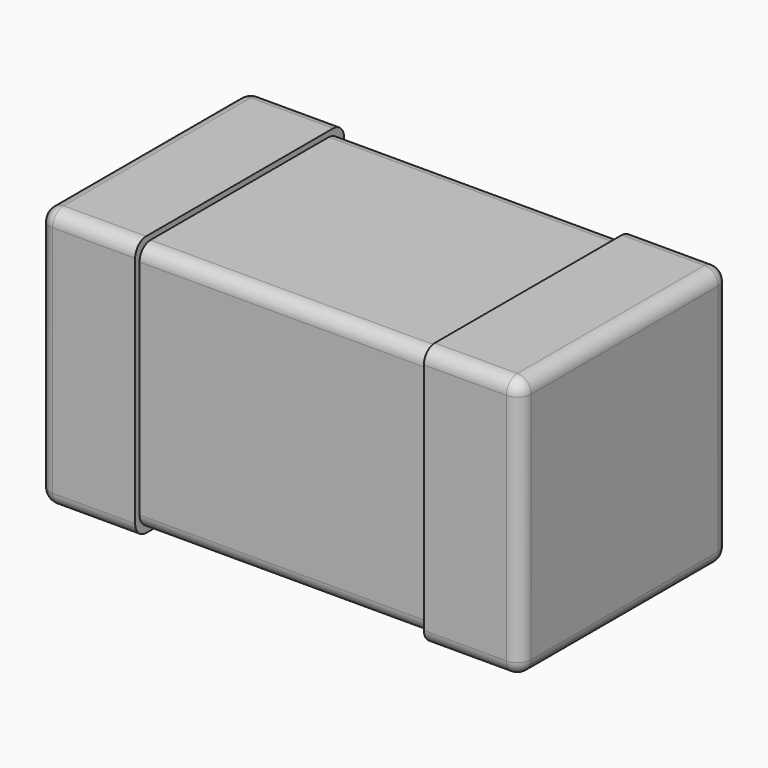
from build123d import *

# Parameters (mm, degrees)
PLATING_LEFT_W      = 0.35
PLATING_LEFT_H      = 0.95
PLATING_LEFT_DEPTH  = 0.95
PLATING_LEFT_F_R    = 0.05
PLATING_RIGHT_W     = 0.35
PLATING_RIGHT_H     = 0.95
PLATING_RIGHT_DEPTH = 0.95
PLATING_RIGHT_F_R   = 0.05
CHIP_W              = 1.71
CHIP_H              = 0.91
CHIP_DEPTH          = 0.91
CHIP_F_R            = 0.05


with BuildPart() as plating_left_f:
    # plating_left → plating_left (new body)
    with BuildSketch(Plane(origin=(-0.875, -0.475, 0), x_dir=(1, 0, 0), z_dir=(0, 0, 1))):
        with Locations((0.175, 0.475)):
            Rectangle(PLATING_LEFT_W, PLATING_LEFT_H)
    extrude(amount=PLATING_LEFT_DEPTH)

    # plating_left_f
    plating_left_f_edges = [plating_left_f.edges().sort_by_distance(p)[0] for p in [
        (-0.875, -0.475, 0.475),
        (-0.875, 0, 0.95),
        (-0.875, 0.475, 0.475),
        (-0.875, 0, 0),
        (-0.7, -0.475, 0),
        (-0.7, -0.475, 0.95),
        (-0.7, 0.475, 0),
        (-0.7, 0.475, 0.95),
    ]]
    fillet(plating_left_f_edges, radius=PLATING_LEFT_F_R)


with BuildPart() as plating_right_f:
    # plating_right → plating_right (new body)
    with BuildSketch(Plane(origin=(0.525, -0.475, 0), x_dir=(1, 0, 0), z_dir=(0, 0, 1))):
        with Locations((0.175, 0.475)):
            Rectangle(PLATING_RIGHT_W, PLATING_RIGHT_H)
    extrude(amount=PLATING_RIGHT_DEPTH)

    # plating_right_f
    plating_right_f_edges = [plating_right_f.edges().sort_by_distance(p)[0] for p in [
        (0.875, -0.475, 0.475),
        (0.875, 0, 0.95),
        (0.875, 0.475, 0.475),
        (0.875, 0, 0),
        (0.7, -0.475, 0),
        (0.7, -0.475, 0.95),
        (0.7, 0.475, 0),
        (0.7, 0.475, 0.95),
    ]]
    fillet(plating_right_f_edges, radius=PLATING_RIGHT_F_R)


with BuildPart() as capacitor:
    # chip → chip (new body)
    with BuildSketch(Plane(origin=(-0.855, -0.455, 0.02), x_dir=(1, 0, 0), z_dir=(0, 0, 1))):
        with Locations((0.855, 0.455)):
            Rectangle(CHIP_W, CHIP_H)
    extrude(amount=CHIP_DEPTH)

    # chip_f
    chip_f_edges = [capacitor.edges().sort_by_distance(p)[0] for p in [
        (0, -0.455, 0.02),
        (0, -0.455, 0.93),
        (0, 0.455, 0.02),
        (0, 0.455, 0.93),
    ]]
    fillet(chip_f_edges, radius=CHIP_F_R)

    # capacitor: union plating_left_f, plating_right_f
    add(plating_left_f.part)
    add(plating_right_f.part)


solid = capacitor.part
